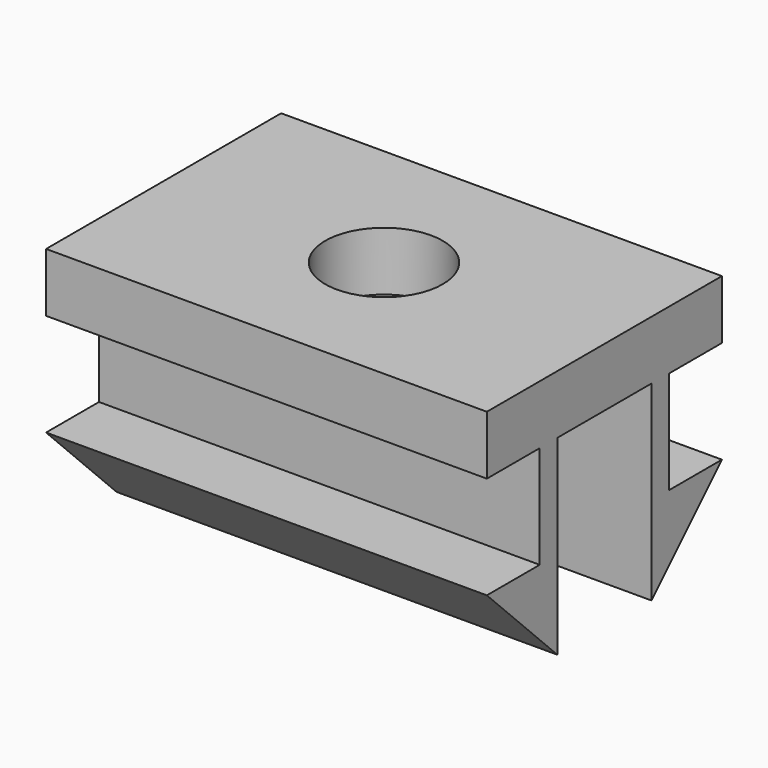
from build123d import *

# Parameters (mm, degrees)
F0_W     = 15
F0_H     = 10
F0_R     = 2
F1_DEPTH = 8.5
F2_W     = 2.25
F2_H     = 3.4951120354
F3_DEPTH = 25
F4_DEPTH = 6.5


with BuildPart() as f1:
    # F0 (on Top) → F1 (new body)
    with BuildSketch(Plane.XY):
        Rectangle(F0_W, F0_H)
        Circle(F0_R, mode=Mode.SUBTRACT)
    extrude(amount=F1_DEPTH)

    # F2 (on face) → F3 (cut)
    with BuildSketch(Plane.YZ.offset(7.5)):
        Polygon((5, 3), (2, 0), (5, 0), align=None)
        with Locations((3.875, 4.7475560177)):
            Rectangle(F2_W, F2_H)
        with Locations((-3.875, 4.7475560177)):
            Rectangle(F2_W, F2_H)
        Polygon((-5, 0), (-2, 0), (-5, 3), align=None)
    extrude(amount=-F3_DEPTH, mode=Mode.SUBTRACT)

    # F4 (cut): faces of the model
    f4_faces = [f1.faces().sort_by_distance(p)[0] for p in [
        (4.5185944257, 0, 0),
        (-4.5185944257, 0, 0),
    ]]
    extrude(f4_faces, amount=-F4_DEPTH, mode=Mode.SUBTRACT)


solid = f1.part
